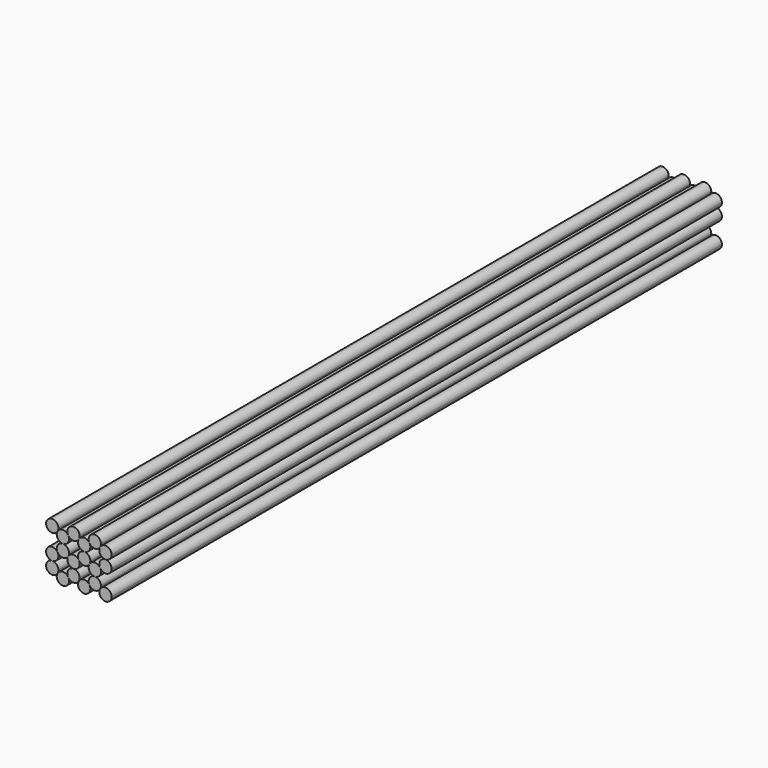
from build123d import *

# Parameters (mm, degrees)
F1_DEPTH = 362.3818


with BuildPart() as f1:
    # F0 (on Front) → F1 (new body)
    with BuildSketch(Plane.XZ):
        with BuildLine():
            ThreePointArc((7.9756, -8.771161), (7.120059, -6.705702), (5.0546, -5.850161))
            ThreePointArc((5.0546, -5.850161), (2.523762, -7.312702), (2.5273, -10.235741))
            ThreePointArc((2.5273, -10.235741), (5.0546, -11.692161), (7.5819, -10.235741))
            ThreePointArc((7.5819, -10.235741), (7.875458, -9.529448), (7.9756, -8.771161))
        make_face()
        with BuildLine():
            ThreePointArc((12.6365, -10.235741), (10.1092, -8.779322), (7.5819, -10.235741))
            ThreePointArc((7.5819, -10.235741), (7.578362, -13.15878), (10.1092, -14.621322))
            ThreePointArc((10.1092, -14.621322), (12.174659, -13.76578), (13.0302, -11.700322))
            ThreePointArc((13.0302, -11.700322), (12.930058, -10.942035), (12.6365, -10.235741))
        make_face()
        with BuildLine():
            ThreePointArc((-2.1336, -8.771161), (-2.989141, -6.705702), (-5.0546, -5.850161))
            ThreePointArc((-5.0546, -5.850161), (-7.585438, -7.312702), (-7.5819, -10.235741))
            ThreePointArc((-7.5819, -10.235741), (-5.0546, -11.692161), (-2.5273, -10.235741))
            ThreePointArc((-2.5273, -10.235741), (-2.233742, -9.529448), (-2.1336, -8.771161))
        make_face()
        with BuildLine():
            ThreePointArc((7.9756, -20.471482), (7.875458, -19.713196), (7.5819, -19.006902))
            ThreePointArc((7.5819, -19.006902), (5.0546, -17.550482), (2.5273, -19.006902))
            ThreePointArc((2.5273, -19.006902), (4.296313, -23.292341), (7.9756, -20.471482))
        make_face()
        with BuildLine():
            ThreePointArc((-7.1882, -11.700322), (-7.288342, -10.942035), (-7.5819, -10.235741))
            ThreePointArc((-7.5819, -10.235741), (-12.640038, -10.241863), (-10.1092, -14.621322))
            ThreePointArc((-10.1092, -14.621322), (-8.043741, -13.76578), (-7.1882, -11.700322))
        make_face()
        with BuildLine():
            ThreePointArc((-2.5273, -19.006902), (-5.0546, -17.550482), (-7.5819, -19.006902))
            ThreePointArc((-7.5819, -19.006902), (-5.812887, -23.292341), (-2.1336, -20.471482))
            ThreePointArc((-2.1336, -20.471482), (-2.233742, -19.713196), (-2.5273, -19.006902))
        make_face()
        with BuildLine():
            ThreePointArc((2.921, -17.542322), (2.065459, -15.476863), (0, -14.621322))
            ThreePointArc((0, -14.621322), (-2.530838, -16.083863), (-2.5273, -19.006902))
            ThreePointArc((-2.5273, -19.006902), (0, -20.463322), (2.5273, -19.006902))
            ThreePointArc((2.5273, -19.006902), (2.820858, -18.300608), (2.921, -17.542322))
        make_face()
        with BuildLine():
            ThreePointArc((18.0848, -20.471482), (15.922087, -17.650624), (12.6365, -19.006902))
            ThreePointArc((12.6365, -19.006902), (14.405513, -23.292341), (18.0848, -20.471482))
        make_face()
        with BuildLine():
            ThreePointArc((-7.1882, -17.542322), (-8.043741, -15.476863), (-10.1092, -14.621322))
            ThreePointArc((-10.1092, -14.621322), (-12.640038, -19.00078), (-7.5819, -19.006902))
            ThreePointArc((-7.5819, -19.006902), (-7.288342, -18.300608), (-7.1882, -17.542322))
        make_face()
        with BuildLine():
            ThreePointArc((-2.1336, -2.929161), (-2.233742, -2.170874), (-2.5273, -1.46458))
            ThreePointArc((-2.5273, -1.46458), (-5.0546, -0.008161), (-7.5819, -1.46458))
            ThreePointArc((-7.5819, -1.46458), (-7.585438, -4.387619), (-5.0546, -5.850161))
            ThreePointArc((-5.0546, -5.850161), (-2.989141, -4.99462), (-2.1336, -2.929161))
        make_face()
        with BuildLine():
            ThreePointArc((7.5819, -1.46458), (5.0546, -0.008161), (2.5273, -1.46458))
            ThreePointArc((2.5273, -1.46458), (2.523762, -4.387619), (5.0546, -5.850161))
            ThreePointArc((5.0546, -5.850161), (7.120059, -4.99462), (7.9756, -2.929161))
            ThreePointArc((7.9756, -2.929161), (7.875458, -2.170874), (7.5819, -1.46458))
        make_face()
        with BuildLine():
            ThreePointArc((2.921, -11.700322), (2.820858, -10.942035), (2.5273, -10.235741))
            ThreePointArc((2.5273, -10.235741), (0, -8.779322), (-2.5273, -10.235741))
            ThreePointArc((-2.5273, -10.235741), (-2.530838, -13.15878), (0, -14.621322))
            ThreePointArc((0, -14.621322), (2.065459, -13.76578), (2.921, -11.700322))
        make_face()
        with BuildLine():
            ThreePointArc((18.0848, -2.929161), (15.922087, -0.108302), (12.6365, -1.46458))
            ThreePointArc((12.6365, -1.46458), (12.632962, -4.387619), (15.1638, -5.850161))
            ThreePointArc((15.1638, -5.850161), (17.229259, -4.99462), (18.0848, -2.929161))
        make_face()
        with BuildLine():
            ThreePointArc((13.0302, -17.542322), (12.174659, -15.476863), (10.1092, -14.621322))
            ThreePointArc((10.1092, -14.621322), (7.578362, -16.083863), (7.5819, -19.006902))
            ThreePointArc((7.5819, -19.006902), (10.1092, -20.463322), (12.6365, -19.006902))
            ThreePointArc((12.6365, -19.006902), (12.930058, -18.300608), (13.0302, -17.542322))
        make_face()
        with BuildLine():
            ThreePointArc((18.0848, -8.771161), (17.229259, -6.705702), (15.1638, -5.850161))
            ThreePointArc((15.1638, -5.850161), (12.632962, -7.312702), (12.6365, -10.235741))
            ThreePointArc((12.6365, -10.235741), (15.922087, -11.592019), (18.0848, -8.771161))
        make_face()
        with BuildLine():
            ThreePointArc((-7.1882, 0), (-12.930058, 0.758287), (-7.5819, -1.46458))
            ThreePointArc((-7.5819, -1.46458), (-7.288342, -0.758287), (-7.1882, 0))
        make_face()
        with BuildLine():
            ThreePointArc((2.5273, -1.46458), (2.820858, -0.758287), (2.921, 0))
            ThreePointArc((2.921, 0), (-0.758287, 2.820858), (-2.5273, -1.46458))
            ThreePointArc((-2.5273, -1.46458), (0, -2.921), (2.5273, -1.46458))
        make_face()
        with BuildLine():
            ThreePointArc((13.0302, 0), (9.350913, 2.820858), (7.5819, -1.46458))
            ThreePointArc((7.5819, -1.46458), (10.1092, -2.921), (12.6365, -1.46458))
            ThreePointArc((12.6365, -1.46458), (12.930058, -0.758287), (13.0302, 0))
        make_face()
    extrude(amount=F1_DEPTH)


solid = f1.part
